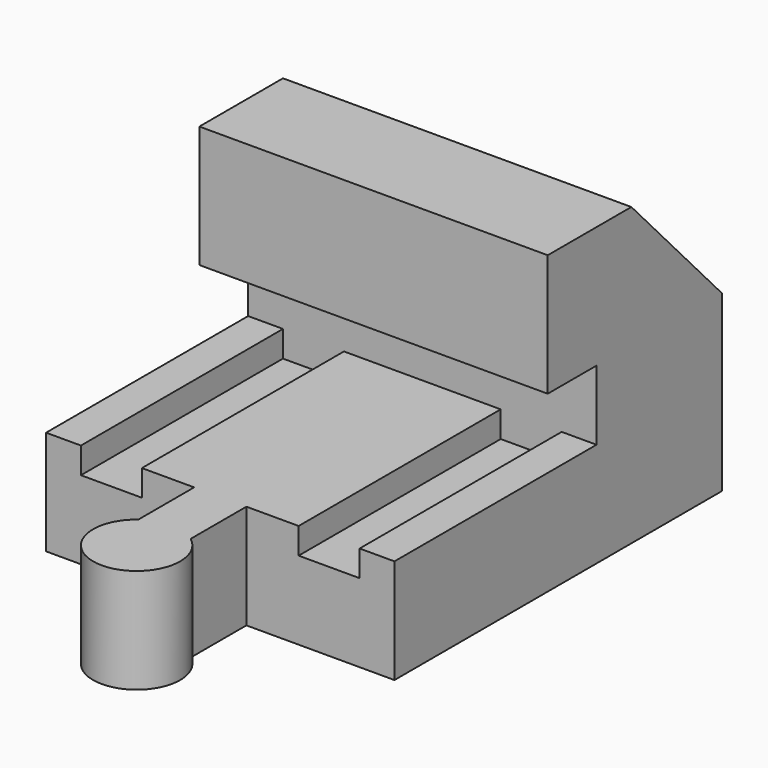
from build123d import *

# Parameters (mm, degrees)
PAD_DEPTH    = 20
PAD001_DEPTH = 6


with BuildPart() as part:
    # AdditivePipe: sweep along a path in Sketch
    with BuildLine(Plane.XY) as additivepipe_path:
        Line((0, 0), (0, 47))
    # Sketch001 → AdditivePipe (sweep)
    with BuildSketch(Plane.XZ):
        Polygon((-20, 6), (-20, -6), (-16, -6), (-9, -6), (9, -6), (16, -6), (20, -6), (20, 6), (16, 6), (16, 3), (9, 3), (9, 6), (-9, 6), (-9, 3), (-16, 3), (-16, 6), align=None)
    sweep(path=additivepipe_path.line)

    # Sketch002 → Pad (new body, symmetric)
    with BuildSketch(Plane.YZ):
        Polygon((47, 3), (47, 14), (34, 28), (22, 28), (22, 14), (29, 14), (29, 3), align=None)
    extrude(amount=PAD_DEPTH, both=True)

    # Sketch003 → Pad001 (join, symmetric)
    with BuildSketch(Plane.XY):
        with BuildLine():
            Line((-3, 0), (3, 0))
            Line((3, 0), (3, -8))
            ThreePointArc((-3, -8), (0, -17), (3, -8))
            Line((-3, 0), (-3, -8))
        make_face()
    extrude(amount=PAD001_DEPTH, both=True)


solid = part.part
